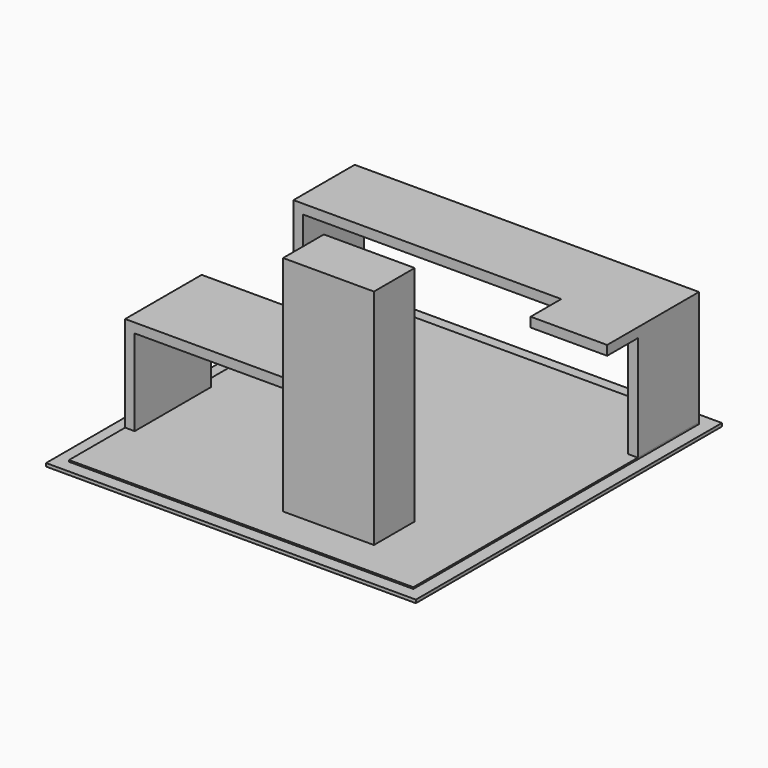
from build123d import *

# Parameters (mm, degrees)
F0_W      = 2946.4
F0_H      = 3048
F1_DEPTH  = 25.4
F2_W      = 2743.2
F2_H      = 2844.8
F3_DEPTH  = 12.7
F4_W      = 1524
F4_H      = 762
F5_DEPTH  = 762
F6_W      = 1371.6
F6_H      = 685.8
F7_DEPTH  = 762
F8_W      = 2743.2
F8_H      = 609.6
F9_DEPTH  = 914.4
F10_W     = 2590.8
F10_H     = 838.2
F11_DEPTH = 609.6
F12_W     = 723.9
F12_H     = 406.4
F13_DEPTH = 1778
F14_W     = 609.6
F14_H     = 76.2
F15_DEPTH = 304.8


with BuildPart() as f1:
    # F0 (on Top) → F1 (new body)
    with BuildSketch(Plane.XY):
        Rectangle(F0_W, F0_H)
    extrude(amount=F1_DEPTH)

    # F2 (on face) → F3 (join)
    with BuildSketch(Plane.XY.offset(25.4)):
        Rectangle(F2_W, F2_H)
    extrude(amount=F3_DEPTH)


with BuildPart() as f5:
    # F4 (on face) → F5 (new body)
    with BuildSketch(Plane.XY.offset(38.1)):
        with Locations((-609.6, -482.6)):
            Rectangle(F4_W, F4_H)
    extrude(amount=F5_DEPTH)

    # F6 (on face) → F7 (cut, through all)
    with BuildSketch(Plane.XZ.offset(863.6)):
        with Locations((-609.6, 381)):
            Rectangle(F6_W, F6_H)
    extrude(amount=-F7_DEPTH, mode=Mode.SUBTRACT)


with BuildPart() as f9:
    # F8 (on face) → F9 (new body)
    with BuildSketch(Plane.XY.offset(38.1)):
        with Locations((0, 1117.6)):
            Rectangle(F8_W, F8_H)
    extrude(amount=F9_DEPTH)

    # F10 (on face) → F11 (cut, through all)
    with BuildSketch(Plane(origin=(0, 1422.4, 0), x_dir=(-1, 0, 0), z_dir=(0, 1, 0))):
        with Locations((0, 457.2)):
            Rectangle(F10_W, F10_H)
    extrude(amount=-F11_DEPTH, mode=Mode.SUBTRACT)

    # F14 (on face) → F15 (join)
    with BuildSketch(Plane.XZ.offset(-812.8)):
        with Locations((1066.8, 914.4)):
            Rectangle(F14_W, F14_H)
    extrude(amount=F15_DEPTH)


with BuildPart() as f13:
    # F12 (on face) → F13 (new body)
    with BuildSketch(Plane.XY.offset(38.1)):
        with Locations((463.300496, -928.725409)):
            Rectangle(F12_W, F12_H)
    extrude(amount=F13_DEPTH)


solid = Compound([f1.part, f5.part, f9.part, f13.part])
